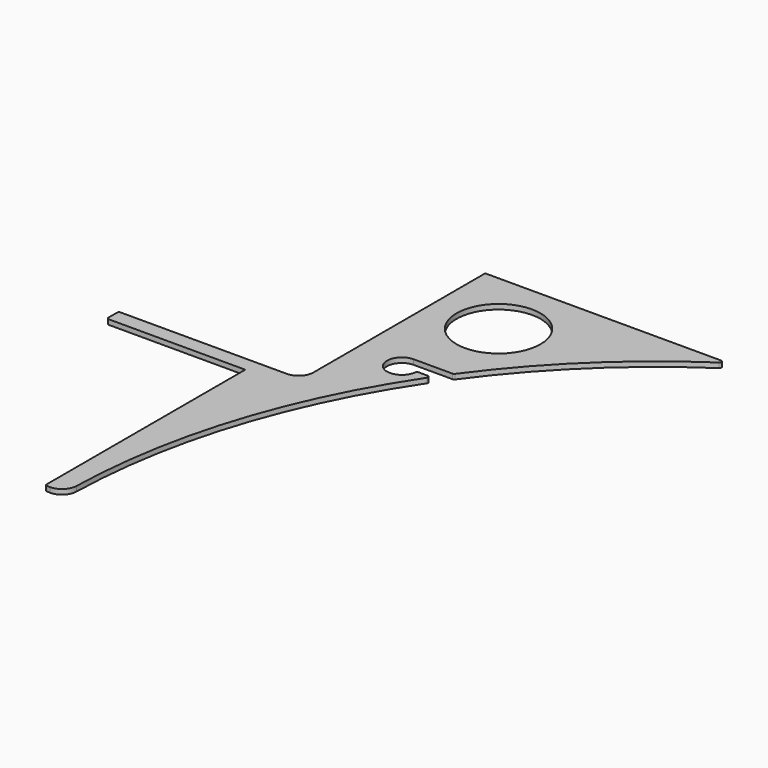
from build123d import *

# Parameters (mm, degrees)
F0_R     = 42.408979
F1_DEPTH = 2.5
F2_R     = 2
F3_R     = 15


with BuildPart() as f1:
    # F0 (on Top) → F1 (new body, symmetric)
    with BuildSketch(Plane.XY):
        with BuildLine():
            Line((5, 253), (145, 253))
            Line((145, 253), (145, 0))
            Line((145, 0), (165, 0))
            ThreePointArc((165, 0), (191.238215, 175.187092), (267.650228, 335))
            Line((267.650228, 335), (252.741245, 335))
            ThreePointArc((252.741245, 335), (227.134643, 324.393398), (237.741245, 350))
            Line((237.741245, 350), (278.1334, 350))
            ThreePointArc((278.1334, 350), (349.704058, 432.176795), (435, 500))
            Line((435, 500), (190, 500))
            Line((190, 500), (190, 268))
            Line((190, 268), (5, 268))
            Line((5, 268), (5, 253))
        make_face()
        with Locations((257.408979, 432.591021)):
            Circle(F0_R, mode=Mode.SUBTRACT)
    extrude(amount=F1_DEPTH, both=True)

    # F2
    f2_edges = [f1.edges().sort_by_distance(p)[0] for p in [
        (435, 500, 0),
        (145, 0, 0),
        (5, 268, 0),
        (5, 253, 0),
        (278.1334, 350, 0),
        (267.650228, 335, 0),
        (252.741245, 335, 0),
    ]]
    fillet(f2_edges, radius=F2_R)

    # F3
    f3_edges = [f1.edges().sort_by_distance(p)[0] for p in [
        (190, 268, 0),
        (165, 0, 0),
    ]]
    fillet(f3_edges, radius=F3_R)


solid = f1.part
